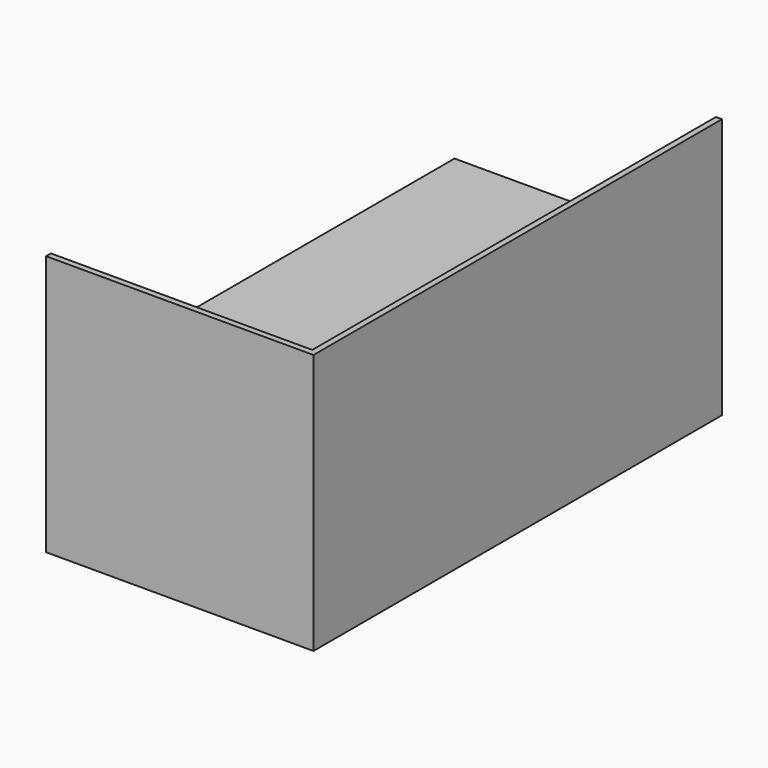
from build123d import *

# Parameters (mm, degrees)
F0_W     = 22
F0_H     = 42
F1_DEPTH = 11.44
F2_W     = 0.5
F2_H     = 10
F3_DEPTH = 42
F4_W     = 0.5
F4_H     = 10
F5_DEPTH = 21.5


with BuildPart() as f1:
    # F0 (on Top) → F1 (new body)
    with BuildSketch(Plane.XY):
        with Locations((-6.227273, 13.585612)):
            Rectangle(F0_W, F0_H)
    extrude(amount=F1_DEPTH)

    # F2 (on face) → F3 (join)
    with BuildSketch(Plane.XZ.offset(7.414388)):
        with Locations((4.522727, 16.44)):
            Rectangle(F2_W, F2_H)
    extrude(amount=-F3_DEPTH)

    # F4 (on face) → F5 (join)
    with BuildSketch(Plane(origin=(4.272727, 0, 0), x_dir=(0, -1, 0), z_dir=(-1, 0, 0))):
        with Locations((7.164388, 16.44)):
            Rectangle(F4_W, F4_H)
    extrude(amount=F5_DEPTH)


solid = f1.part
